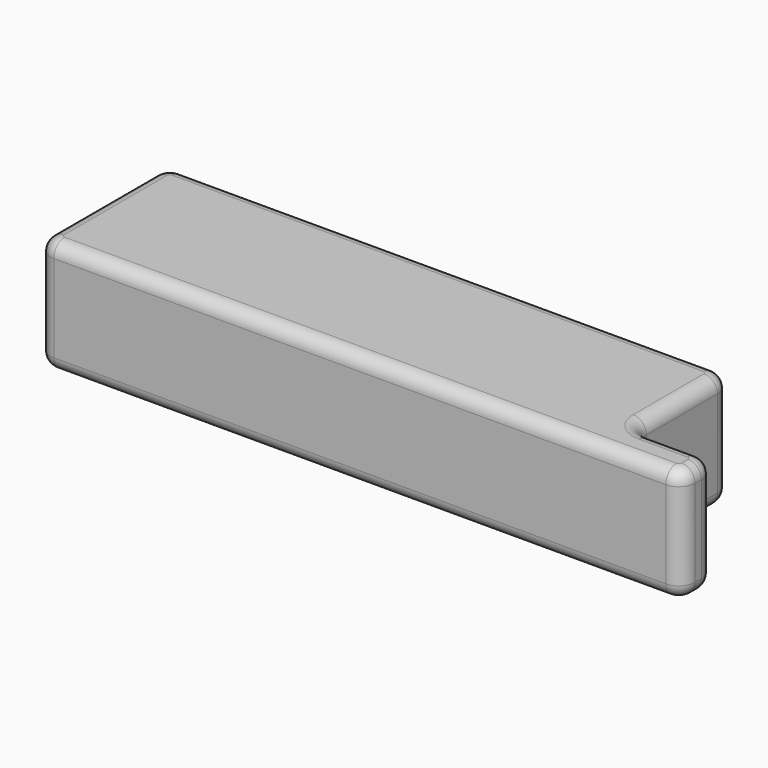
from build123d import *

# Parameters (mm, degrees)
PAD_DEPTH   = 8.5
FILLET_R    = 1.2
FILLET001_R = 1


with BuildPart() as part:
    # Sketch → Pad (new body)
    with BuildSketch(Plane.XY):
        Polygon((0, 0), (0, 12), (42, 12), (42, 9), (42, 9), (42, 3), (48, 3), (48, 0), align=None)
    extrude(amount=PAD_DEPTH)

    # Fillet
    fillet_edges = [part.edges().sort_by_distance(p)[0] for p in [
        (48, 0, 4.25),
        (48, 3, 4.25),
        (42, 3, 4.25),
        (42, 12, 4.25),
        (0, 12, 4.25),
        (0, 0, 4.25),
    ]]
    fillet(fillet_edges, radius=FILLET_R)

    # Fillet001
    fillet001_edges = [part.edges().sort_by_distance(p)[0] for p in [
        (21, 12, 8.5),
        (21, 12, 0),
    ]]
    fillet(fillet001_edges, radius=FILLET001_R)


solid = part.part
